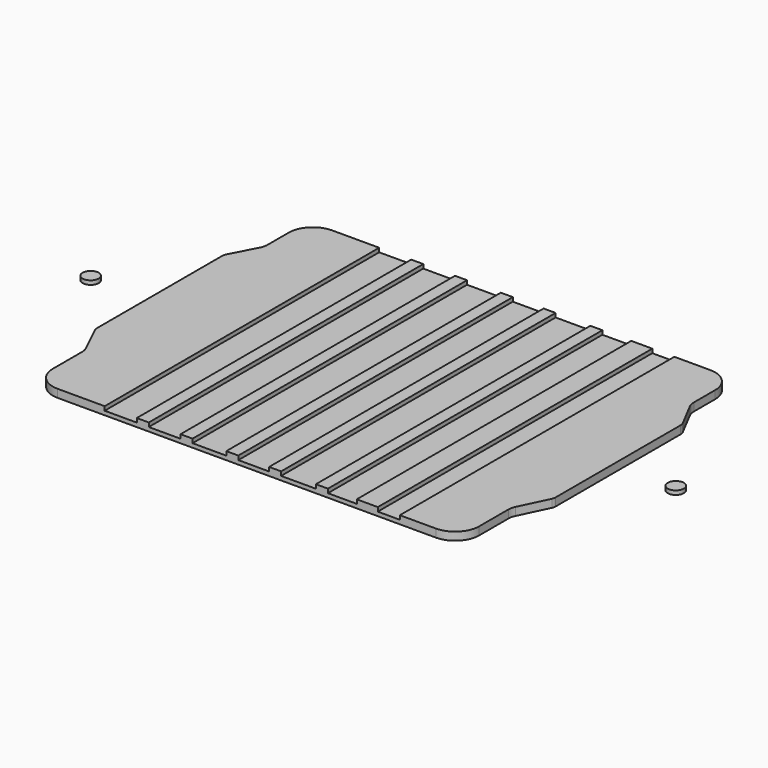
from build123d import *

# Parameters (mm, degrees)
F5_DEPTH  = 1
F6_DEPTH  = 1
F4_W      = 1.5
F4_H      = 42.806028
F7_DEPTH  = 1
F8_DEPTH  = 1
F9_DEPTH  = 1
F10_DEPTH = 1
F4_W_2    = 2.625
F11_DEPTH = 1
F12_DEPTH = 1
F13_DEPTH = 0.5
F14_R     = 1
F15_DEPTH = 0.5


with BuildPart() as f5:
    # F4 (on Top) → F5 (new body)
    with BuildSketch(Plane.XY):
        with BuildLine():
            ThreePointArc((-26.79573, -12.992989), (-26.64891, -13.414307), (-26.599151, -13.85769))
            Line((-26.599151, -13.85769), (-26.599151, -18.40302))
            ThreePointArc((-26.599151, -18.40302), (-25.72047, -20.524339), (-23.599148, -21.403014))
            Line((-23.599148, -21.403014), (-17.724151, -21.403014))
            Line((-17.724151, -21.403014), (-17.724151, 21.403014))
            Line((-17.724151, 21.403014), (-23.599148, 21.403014))
            ThreePointArc((-23.599148, 21.403014), (-25.720467, 20.524337), (-26.599151, 18.40302))
            Line((-26.599151, 18.40302), (-26.599151, 15.087812))
            ThreePointArc((-26.599151, 15.087812), (-26.656802, 14.61107), (-26.82643, 14.161812))
            Line((-26.82643, 14.161812), (-28.485507, 10.985712))
            ThreePointArc((-28.485507, 10.985712), (-28.570317, 10.761104), (-28.599147, 10.522754))
            Line((-28.599147, 10.522754), (-28.599147, -9.004427))
            ThreePointArc((-28.599147, -9.004427), (-28.574265, -9.226139), (-28.500857, -9.43682))
            Line((-28.500857, -9.43682), (-26.79573, -12.992989))
        make_face()
    extrude(amount=F5_DEPTH)



with BuildPart() as f6:
    # F4 (on Top) → F6 (new body)
    with BuildSketch(Plane.XY):
        Polygon((-13.724109, 21.403014), (-13.724108, -21.403014), (-12.224108, -21.403014), (-12.224109, 21.403014), align=None)
    extrude(amount=F6_DEPTH)


with BuildPart() as f7:
    # F4 (on Top) → F7 (new body)
    with BuildSketch(Plane.XY):
        with Locations((-7.511842, 0)):
            Rectangle(F4_W, F4_H)
    extrude(amount=F7_DEPTH)


with BuildPart() as f8:
    # F4 (on Top) → F8 (new body)
    with BuildSketch(Plane.XY):
        Polygon((-2.549576, 21.403014), (-2.549575, -21.403014), (-1.049575, -21.403014), (-1.049576, 21.403014), align=None)
    extrude(amount=F8_DEPTH)


with BuildPart() as f9:
    # F4 (on Top) → F9 (new body)
    with BuildSketch(Plane.XY):
        with Locations((3.537691, 0)):
            Rectangle(F4_W, F4_H)
    extrude(amount=F9_DEPTH)


with BuildPart() as f10:
    # F4 (on Top) → F10 (new body)
    with BuildSketch(Plane.XY):
        with Locations((9.374958, 0)):
            Rectangle(F4_W, F4_H)
    extrude(amount=F10_DEPTH)


with BuildPart() as f11:
    # F4 (on Top) → F11 (new body)
    with BuildSketch(Plane.XY):
        with Locations((15.036566, 0)):
            Rectangle(F4_W_2, F4_H)
    extrude(amount=F11_DEPTH)


with BuildPart() as f12:
    # F4 (on Top) → F12 (new body)
    with BuildSketch(Plane.XY):
        with BuildLine():
            Line((19.099066, 21.403014), (19.099066, -21.403014))
            Line((19.099066, -21.403014), (23.599072, -21.403014))
            ThreePointArc((23.599072, -21.403014), (25.720388, -20.524336), (26.599066, -18.40302))
            Line((26.599066, -18.40302), (26.599066, -13.85769))
            ThreePointArc((26.599066, -13.85769), (26.648834, -13.414306), (26.795662, -12.992989))
            Line((26.795662, -12.992989), (28.500849, -9.43682))
            ThreePointArc((28.500849, -9.43682), (28.574263, -9.22614), (28.599147, -9.004427))
            Line((28.599147, -9.004427), (28.599147, 10.522754))
            ThreePointArc((28.599147, 10.522754), (28.570267, 10.761104), (28.48544, 10.985712))
            Line((28.48544, 10.985712), (26.826396, 14.161812))
            ThreePointArc((26.826396, 14.161812), (26.65673, 14.611064), (26.599066, 15.087812))
            Line((26.599066, 15.087812), (26.599066, 18.40302))
            ThreePointArc((26.599066, 18.40302), (25.720388, 20.524336), (23.599072, 21.403014))
            Line((23.599072, 21.403014), (19.099066, 21.403014))
        make_face()
    extrude(amount=F12_DEPTH)


with BuildPart() as f5_1:
    add(f5.part)

    add(f6.part)  # F13 merges F6

    add(f7.part)  # F13 merges F7

    add(f8.part)  # F13 merges F8

    add(f9.part)  # F13 merges F9

    add(f10.part)  # F13 merges F10

    add(f11.part)  # F13 merges F11

    add(f12.part)  # F13 merges F12
    # F1 (on Top) → F13 (join)
    with BuildSketch(Plane.XY):
        with BuildLine():
            ThreePointArc((-26.79573, -12.992989), (-26.64891, -13.414307), (-26.599151, -13.85769))
            Line((-26.599151, -13.85769), (-26.599151, -18.40302))
            ThreePointArc((-26.599151, -18.40302), (-25.72047, -20.524339), (-23.599148, -21.403014))
            Line((-23.599148, -21.403014), (23.599072, -21.403014))
            ThreePointArc((23.599072, -21.403014), (25.720388, -20.524336), (26.599066, -18.40302))
            Line((26.599066, -18.40302), (26.599066, -13.85769))
            ThreePointArc((26.599066, -13.85769), (26.648834, -13.414306), (26.795662, -12.992989))
            Line((26.795662, -12.992989), (28.500849, -9.43682))
            ThreePointArc((28.500849, -9.43682), (28.574263, -9.22614), (28.599147, -9.004427))
            Line((28.599147, -9.004427), (28.599147, 10.522754))
            ThreePointArc((28.599147, 10.522754), (28.570267, 10.761104), (28.48544, 10.985712))
            Line((28.48544, 10.985712), (26.826396, 14.161812))
            ThreePointArc((26.826396, 14.161812), (26.65673, 14.611064), (26.599066, 15.087812))
            Line((26.599066, 15.087812), (26.599066, 18.40302))
            ThreePointArc((26.599066, 18.40302), (25.720388, 20.524336), (23.599072, 21.403014))
            Line((23.599072, 21.403014), (-23.599148, 21.403014))
            ThreePointArc((-23.599148, 21.403014), (-25.720467, 20.524337), (-26.599151, 18.40302))
            Line((-26.599151, 18.40302), (-26.599151, 15.087812))
            ThreePointArc((-26.599151, 15.087812), (-26.656802, 14.61107), (-26.82643, 14.161812))
            Line((-26.82643, 14.161812), (-28.485507, 10.985712))
            ThreePointArc((-28.485507, 10.985712), (-28.570317, 10.761104), (-28.599147, 10.522754))
            Line((-28.599147, 10.522754), (-28.599147, -9.004427))
            ThreePointArc((-28.599147, -9.004427), (-28.574265, -9.226139), (-28.500857, -9.43682))
            Line((-28.500857, -9.43682), (-26.79573, -12.992989))
        make_face()
    extrude(amount=F13_DEPTH)


with BuildPart() as f15:
    # F14 (on Top) → F15 (new body)
    with BuildSketch(Plane.XY):
        with Locations((-36.599147, 0)):
            Circle(F14_R)
        with Locations((35.599147, 1)):
            Circle(F14_R)
    extrude(amount=F15_DEPTH)


solid = Compound([f5_1.part, f15.part])
